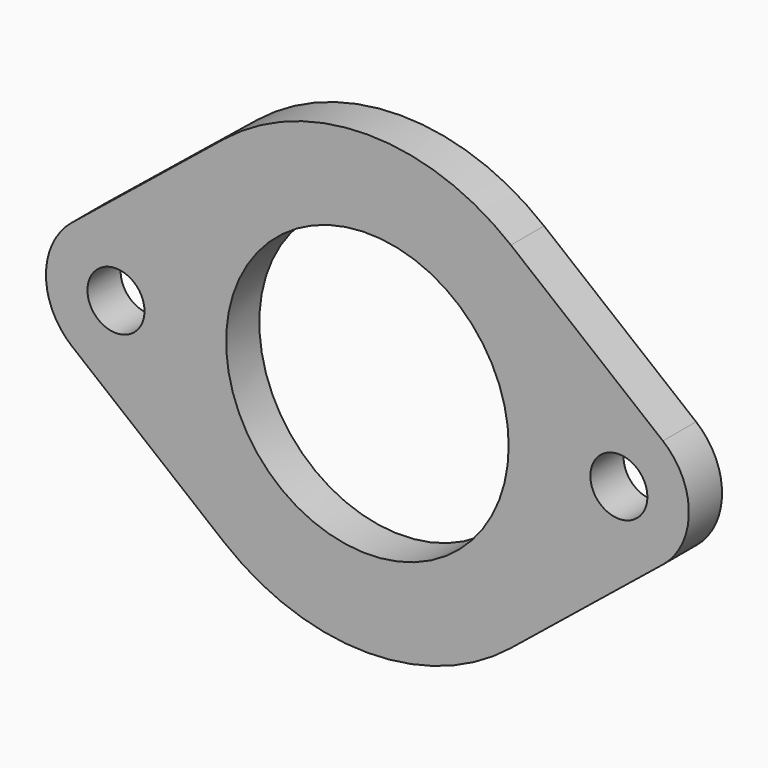
from build123d import *

# Parameters (mm, degrees)
F0_R     = 5.5
F0_R_2   = 27.25
F1_DEPTH = 8


with BuildPart() as f1:
    # F0 (on Front) → F1 (new body)
    with BuildSketch(Plane.XZ):
        with BuildLine():
            ThreePointArc((-56.989691, 10.496435), (-62, 0), (-56.989691, -10.496435))
            Line((-56.989691, -10.496435), (-27.670103, -34.210604))
            ThreePointArc((-27.670103, -34.210604), (0, -44), (27.670103, -34.210604))
            Line((27.670103, -34.210604), (56.989691, -10.496435))
            ThreePointArc((56.989691, -10.496435), (62, 0), (56.989691, 10.496435))
            Line((56.989691, 10.496435), (27.670103, 34.210604))
            ThreePointArc((27.670103, 34.210604), (0, 44), (-27.670103, 34.210604))
            Line((-27.670103, 34.210604), (-56.989691, 10.496435))
        make_face()
        with Locations((-48.5, 0)):
            Circle(F0_R, mode=Mode.SUBTRACT)
        Circle(F0_R_2, mode=Mode.SUBTRACT)
        with Locations((48.5, 0)):
            Circle(F0_R, mode=Mode.SUBTRACT)
    extrude(amount=F1_DEPTH)


solid = f1.part
